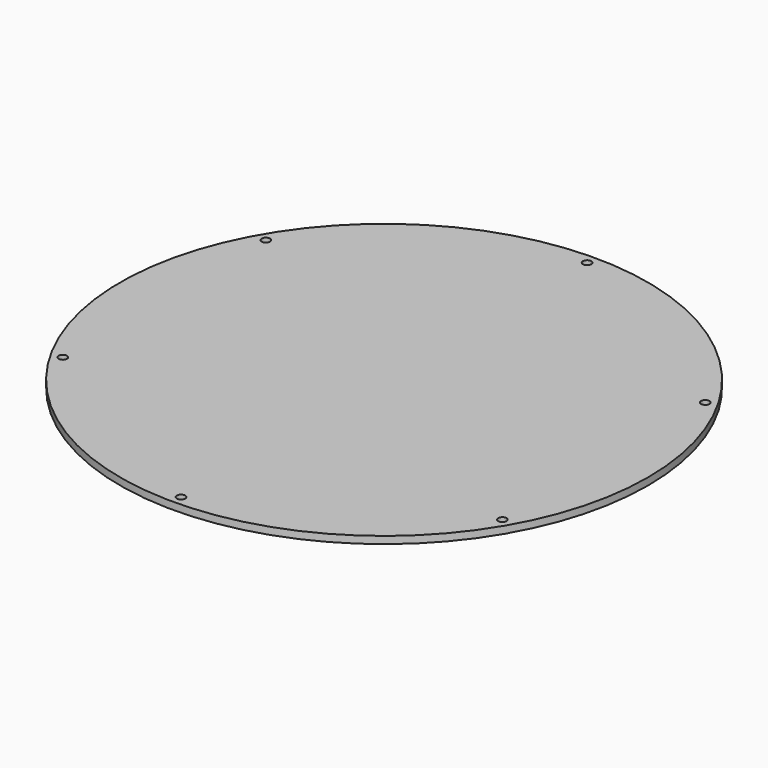
from build123d import *

# Parameters (mm, degrees)
F0_R     = 110
F0_R_2   = 1.75
F1_DEPTH = 3


with BuildPart() as f1:
    # F0 (on Top) → F1 (new body)
    with BuildSketch(Plane.XY):
        Circle(F0_R)
        with Locations((-91.582186, -52.875)):
            Circle(F0_R_2, mode=Mode.SUBTRACT)
        with Locations((0, -105.75)):
            Circle(F0_R_2, mode=Mode.SUBTRACT)
        with Locations((91.582186, -52.875)):
            Circle(F0_R_2, mode=Mode.SUBTRACT)
        with Locations((-91.582186, 52.875)):
            Circle(F0_R_2, mode=Mode.SUBTRACT)
        with Locations((91.582186, 52.875)):
            Circle(F0_R_2, mode=Mode.SUBTRACT)
        with Locations((0, 105.75)):
            Circle(F0_R_2, mode=Mode.SUBTRACT)
    extrude(amount=F1_DEPTH)


solid = f1.part
